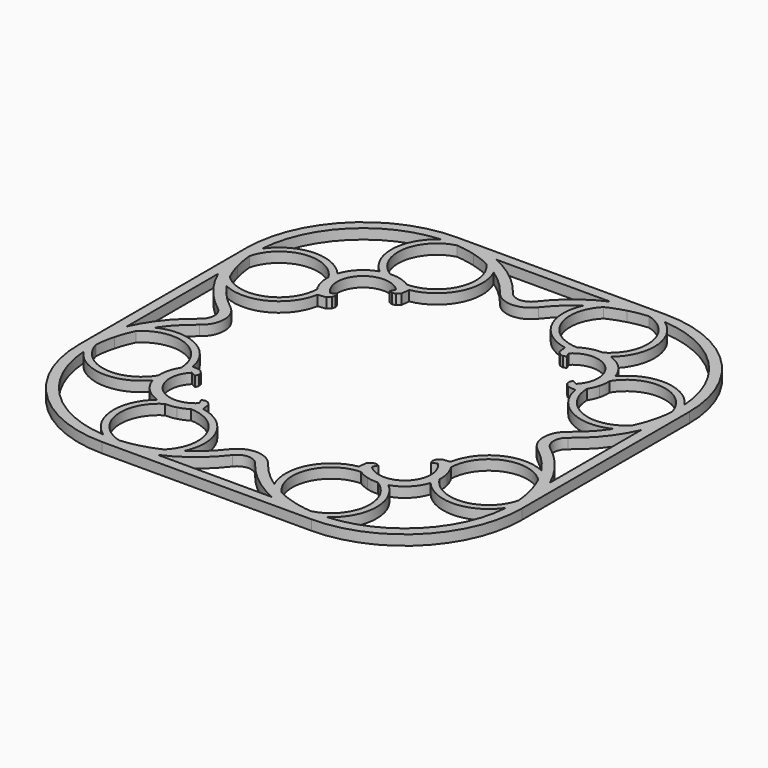
from build123d import *

# Parameters (mm, degrees)
F2_DEPTH = 1.5


with BuildPart() as f2:
    # F1 (on Top) → F2 (new body)
    with BuildSketch(Plane.XY):
        with BuildLine():
            Line((0, 32.85), (-15.5, 32.85))
            ThreePointArc((-15.5, 32.85), (-27.768303, 27.768303), (-32.85, 15.5))
            Line((-32.85, 15.5), (-32.85, 0))
            Line((-32.85, 0), (-32.85, -15.5))
            ThreePointArc((-32.85, -15.5), (-27.768303, -27.768303), (-15.5, -32.85))
            Line((-15.5, -32.85), (0, -32.85))
            Line((0, -32.85), (15.5, -32.85))
            ThreePointArc((15.5, -32.85), (27.768303, -27.768303), (32.85, -15.5))
            Line((32.85, -15.5), (32.85, 0))
            Line((32.85, 0), (32.85, 15.5))
            ThreePointArc((32.85, 15.5), (27.768303, 27.768303), (15.5, 32.85))
            Line((15.5, 32.85), (0, 32.85))
        make_face()
        with BuildLine():
            ThreePointArc((-31.314441, -16.561104), (-26.095691, -19.497077), (-20.596098, -17.128585))
            ThreePointArc((-20.596098, -17.128585), (-19.283021, -19.283021), (-17.128585, -20.596098))
            ThreePointArc((-17.128585, -20.596098), (-19.497077, -26.095691), (-16.561104, -31.314441))
            ThreePointArc((-16.561104, -31.314441), (-26.707642, -26.707642), (-31.314441, -16.561104))
        make_face(mode=Mode.SUBTRACT)
        with BuildLine():
            ThreePointArc((-15.772179, -20.843072), (-14.93688, -20.820282), (-14.115318, -20.667703))
            ThreePointArc((-14.115318, -20.667703), (-13.327535, -20.389059), (-12.59275, -19.991146))
            ThreePointArc((-12.59275, -19.991146), (-7.409372, -23.624451), (-8.706178, -29.820143))
            ThreePointArc((-8.706178, -29.820143), (-10.029517, -30.376031), (-11.397718, -30.809924))
            ThreePointArc((-11.397718, -30.809924), (-12.799562, -31.118263), (-14.223551, -31.298518))
            ThreePointArc((-14.223551, -31.298518), (-18.444464, -26.581295), (-15.772179, -20.843072))
        make_face(mode=Mode.SUBTRACT)
        with BuildLine():
            ThreePointArc((-1.664904, -25.969604), (0, -25.141623), (1.664904, -25.969604))
            ThreePointArc((1.664904, -25.969604), (4.713149, -29.089199), (8.443088, -31.35))
            Line((8.443088, -31.35), (0, -31.35))
            Line((0, -31.35), (-8.443088, -31.35))
            ThreePointArc((-8.443088, -31.35), (-4.713149, -29.089199), (-1.664904, -25.969604))
        make_face(mode=Mode.SUBTRACT)
        with BuildLine():
            ThreePointArc((-29.820143, -8.706178), (-23.624451, -7.409372), (-19.991146, -12.59275))
            ThreePointArc((-19.991146, -12.59275), (-20.389059, -13.327535), (-20.667703, -14.115318))
            ThreePointArc((-20.667703, -14.115318), (-20.820282, -14.93688), (-20.843072, -15.772179))
            ThreePointArc((-20.843072, -15.772179), (-26.581295, -18.444464), (-31.298518, -14.223551))
            ThreePointArc((-31.298518, -14.223551), (-31.118263, -12.799562), (-30.809924, -11.397718))
            ThreePointArc((-30.809924, -11.397718), (-30.376031, -10.029517), (-29.820143, -8.706178))
        make_face(mode=Mode.SUBTRACT)
        with BuildLine():
            ThreePointArc((8.706178, -29.820143), (7.409372, -23.624451), (12.59275, -19.991146))
            ThreePointArc((12.59275, -19.991146), (13.327535, -20.389059), (14.115318, -20.667703))
            ThreePointArc((14.115318, -20.667703), (14.93688, -20.820282), (15.772179, -20.843072))
            ThreePointArc((15.772179, -20.843072), (18.444464, -26.581295), (14.223551, -31.298518))
            ThreePointArc((14.223551, -31.298518), (12.799562, -31.118263), (11.397718, -30.809924))
            ThreePointArc((11.397718, -30.809924), (10.029517, -30.376031), (8.706178, -29.820143))
        make_face(mode=Mode.SUBTRACT)
        with BuildLine():
            ThreePointArc((16.561104, -31.314441), (19.497077, -26.095691), (17.128585, -20.596098))
            ThreePointArc((17.128585, -20.596098), (19.283021, -19.283021), (20.596098, -17.128585))
            ThreePointArc((20.596098, -17.128585), (26.095691, -19.497077), (31.314441, -16.561104))
            ThreePointArc((31.314441, -16.561104), (26.707642, -26.707642), (16.561104, -31.314441))
        make_face(mode=Mode.SUBTRACT)
        with BuildLine():
            ThreePointArc((20.843072, -15.772179), (20.820282, -14.93688), (20.667703, -14.115318))
            ThreePointArc((20.667703, -14.115318), (20.389059, -13.327535), (19.991146, -12.59275))
            ThreePointArc((19.991146, -12.59275), (23.624451, -7.409372), (29.820143, -8.706178))
            ThreePointArc((29.820143, -8.706178), (30.376031, -10.029517), (30.809924, -11.397718))
            ThreePointArc((30.809924, -11.397718), (31.118263, -12.799562), (31.298518, -14.223551))
            ThreePointArc((31.298518, -14.223551), (26.581295, -18.444464), (20.843072, -15.772179))
        make_face(mode=Mode.SUBTRACT)
        with BuildLine():
            ThreePointArc((25.969604, -1.664904), (25.141623, 0), (25.969604, 1.664904))
            ThreePointArc((25.969604, 1.664904), (29.089199, 4.713149), (31.35, 8.443088))
            Line((31.35, 8.443088), (31.35, 0))
            Line((31.35, 0), (31.35, -8.443088))
            ThreePointArc((31.35, -8.443088), (29.089199, -4.713149), (25.969604, -1.664904))
        make_face(mode=Mode.SUBTRACT)
        with BuildLine():
            Line((-31.35, 0), (-31.35, 8.443088))
            ThreePointArc((-31.35, 8.443088), (-29.089199, 4.713149), (-25.969604, 1.664904))
            ThreePointArc((-25.969604, 1.664904), (-25.141623, 0), (-25.969604, -1.664904))
            ThreePointArc((-25.969604, -1.664904), (-29.089199, -4.713149), (-31.35, -8.443088))
            Line((-31.35, -8.443088), (-31.35, 0))
        make_face(mode=Mode.SUBTRACT)
        with BuildLine():
            ThreePointArc((-20.843072, 15.772179), (-20.820282, 14.93688), (-20.667703, 14.115318))
            ThreePointArc((-20.667703, 14.115318), (-20.389059, 13.327535), (-19.991146, 12.59275))
            ThreePointArc((-19.991146, 12.59275), (-23.624451, 7.409372), (-29.820143, 8.706178))
            ThreePointArc((-29.820143, 8.706178), (-30.376031, 10.029517), (-30.809924, 11.397718))
            ThreePointArc((-30.809924, 11.397718), (-31.118263, 12.799562), (-31.298518, 14.223551))
            ThreePointArc((-31.298518, 14.223551), (-26.581295, 18.444464), (-20.843072, 15.772179))
        make_face(mode=Mode.SUBTRACT)
        with BuildLine():
            ThreePointArc((-17.128585, 20.596098), (-19.283021, 19.283021), (-20.596098, 17.128585))
            ThreePointArc((-20.596098, 17.128585), (-26.095691, 19.497077), (-31.314441, 16.561104))
            ThreePointArc((-31.314441, 16.561104), (-26.707642, 26.707642), (-16.561104, 31.314441))
            ThreePointArc((-16.561104, 31.314441), (-19.497077, 26.095691), (-17.128585, 20.596098))
        make_face(mode=Mode.SUBTRACT)
        with BuildLine():
            ThreePointArc((-8.706178, 29.820143), (-7.409372, 23.624451), (-12.59275, 19.991146))
            ThreePointArc((-12.59275, 19.991146), (-13.327535, 20.389059), (-14.115318, 20.667703))
            ThreePointArc((-14.115318, 20.667703), (-14.93688, 20.820282), (-15.772179, 20.843072))
            ThreePointArc((-15.772179, 20.843072), (-18.444464, 26.581295), (-14.223551, 31.298518))
            ThreePointArc((-14.223551, 31.298518), (-12.799562, 31.118263), (-11.397718, 30.809924))
            ThreePointArc((-11.397718, 30.809924), (-10.029517, 30.376031), (-8.706178, 29.820143))
        make_face(mode=Mode.SUBTRACT)
        with BuildLine():
            ThreePointArc((-6.673836, 28.665156), (-4.617475, 27.023591), (-2.861022, 25.064451))
            ThreePointArc((-2.861022, 25.064451), (0, 23.641623), (2.861022, 25.064451))
            ThreePointArc((2.861022, 25.064451), (4.617475, 27.023591), (6.673836, 28.665156))
            ThreePointArc((6.673836, 28.665156), (6.740584, 22.677599), (11.541555, 19.099057))
            Line((11.541555, 19.099057), (11.690475, 17.895312))
            Line((11.690475, 17.895312), (12.163968, 17.421819))
            Line((12.163968, 17.421819), (12.677919, 17.301522))
            Line((12.677919, 17.301522), (13.15498, 17.473795))
            Line((13.15498, 17.473795), (12.777639, 18.222361))
            ThreePointArc((12.777639, 18.222361), (18.222361, 18.222361), (18.222361, 12.777639))
            Line((18.222361, 12.777639), (17.473795, 13.15498))
            Line((17.473795, 13.15498), (17.301522, 12.677919))
            Line((17.301522, 12.677919), (17.421819, 12.163968))
            Line((17.421819, 12.163968), (17.895312, 11.690475))
            Line((17.895312, 11.690475), (19.099057, 11.541555))
            ThreePointArc((19.099057, 11.541555), (22.677599, 6.740584), (28.665156, 6.673836))
            ThreePointArc((28.665156, 6.673836), (27.023591, 4.617475), (25.064451, 2.861022))
            ThreePointArc((25.064451, 2.861022), (23.641623, 0), (25.064451, -2.861022))
            ThreePointArc((25.064451, -2.861022), (27.023591, -4.617475), (28.665156, -6.673836))
            ThreePointArc((28.665156, -6.673836), (22.677599, -6.740584), (19.099057, -11.541555))
            Line((19.099057, -11.541555), (17.895312, -11.690475))
            Line((17.895312, -11.690475), (17.421819, -12.163968))
            Line((17.421819, -12.163968), (17.301522, -12.677919))
            Line((17.301522, -12.677919), (17.473795, -13.15498))
            Line((17.473795, -13.15498), (18.222361, -12.777639))
            ThreePointArc((18.222361, -12.777639), (18.222361, -18.222361), (12.777639, -18.222361))
            Line((12.777639, -18.222361), (13.15498, -17.473795))
            Line((13.15498, -17.473795), (12.677919, -17.301522))
            Line((12.677919, -17.301522), (12.163968, -17.421819))
            Line((12.163968, -17.421819), (11.690475, -17.895312))
            Line((11.690475, -17.895312), (11.541555, -19.099057))
            ThreePointArc((11.541555, -19.099057), (6.740584, -22.677599), (6.673836, -28.665156))
            ThreePointArc((6.673836, -28.665156), (4.617475, -27.023591), (2.861022, -25.064451))
            ThreePointArc((2.861022, -25.064451), (0, -23.641623), (-2.861022, -25.064451))
            ThreePointArc((-2.861022, -25.064451), (-4.617475, -27.023591), (-6.673836, -28.665156))
            ThreePointArc((-6.673836, -28.665156), (-6.740584, -22.677599), (-11.541555, -19.099057))
            Line((-11.541555, -19.099057), (-11.690475, -17.895312))
            Line((-11.690475, -17.895312), (-12.163968, -17.421819))
            Line((-12.163968, -17.421819), (-12.677919, -17.301522))
            Line((-12.677919, -17.301522), (-13.15498, -17.473795))
            Line((-13.15498, -17.473795), (-12.777639, -18.222361))
            ThreePointArc((-12.777639, -18.222361), (-18.222361, -18.222361), (-18.222361, -12.777639))
            Line((-18.222361, -12.777639), (-17.473795, -13.15498))
            Line((-17.473795, -13.15498), (-17.301522, -12.677919))
            Line((-17.301522, -12.677919), (-17.421819, -12.163968))
            Line((-17.421819, -12.163968), (-17.895312, -11.690475))
            Line((-17.895312, -11.690475), (-19.099057, -11.541555))
            ThreePointArc((-19.099057, -11.541555), (-22.677599, -6.740584), (-28.665156, -6.673836))
            ThreePointArc((-28.665156, -6.673836), (-27.023591, -4.617475), (-25.064451, -2.861022))
            ThreePointArc((-25.064451, -2.861022), (-23.641623, 0), (-25.064451, 2.861022))
            ThreePointArc((-25.064451, 2.861022), (-27.023591, 4.617475), (-28.665156, 6.673836))
            ThreePointArc((-28.665156, 6.673836), (-22.677599, 6.740584), (-19.099057, 11.541555))
            Line((-19.099057, 11.541555), (-17.895312, 11.690475))
            Line((-17.895312, 11.690475), (-17.421819, 12.163968))
            Line((-17.421819, 12.163968), (-17.301522, 12.677919))
            Line((-17.301522, 12.677919), (-17.473795, 13.15498))
            Line((-17.473795, 13.15498), (-18.222361, 12.777639))
            ThreePointArc((-18.222361, 12.777639), (-18.222361, 18.222361), (-12.777639, 18.222361))
            Line((-12.777639, 18.222361), (-13.15498, 17.473795))
            Line((-13.15498, 17.473795), (-12.677919, 17.301522))
            Line((-12.677919, 17.301522), (-12.163968, 17.421819))
            Line((-12.163968, 17.421819), (-11.690475, 17.895312))
            Line((-11.690475, 17.895312), (-11.541555, 19.099057))
            ThreePointArc((-11.541555, 19.099057), (-6.740584, 22.677599), (-6.673836, 28.665156))
        make_face(mode=Mode.SUBTRACT)
        with BuildLine():
            ThreePointArc((29.820143, 8.706178), (23.624451, 7.409372), (19.991146, 12.59275))
            ThreePointArc((19.991146, 12.59275), (20.389059, 13.327535), (20.667703, 14.115318))
            ThreePointArc((20.667703, 14.115318), (20.820282, 14.93688), (20.843072, 15.772179))
            ThreePointArc((20.843072, 15.772179), (26.581295, 18.444464), (31.298518, 14.223551))
            ThreePointArc((31.298518, 14.223551), (31.118263, 12.799562), (30.809924, 11.397718))
            ThreePointArc((30.809924, 11.397718), (30.376031, 10.029517), (29.820143, 8.706178))
        make_face(mode=Mode.SUBTRACT)
        with BuildLine():
            ThreePointArc((-1.664904, 25.969604), (-4.713149, 29.089199), (-8.443088, 31.35))
            Line((-8.443088, 31.35), (0, 31.35))
            Line((0, 31.35), (8.443088, 31.35))
            ThreePointArc((8.443088, 31.35), (4.713149, 29.089199), (1.664904, 25.969604))
            ThreePointArc((1.664904, 25.969604), (0, 25.141623), (-1.664904, 25.969604))
        make_face(mode=Mode.SUBTRACT)
        with BuildLine():
            ThreePointArc((15.772179, 20.843072), (14.93688, 20.820282), (14.115318, 20.667703))
            ThreePointArc((14.115318, 20.667703), (13.327535, 20.389059), (12.59275, 19.991146))
            ThreePointArc((12.59275, 19.991146), (7.409372, 23.624451), (8.706178, 29.820143))
            ThreePointArc((8.706178, 29.820143), (10.029517, 30.376031), (11.397718, 30.809924))
            ThreePointArc((11.397718, 30.809924), (12.799562, 31.118263), (14.223551, 31.298518))
            ThreePointArc((14.223551, 31.298518), (18.444464, 26.581295), (15.772179, 20.843072))
        make_face(mode=Mode.SUBTRACT)
        with BuildLine():
            ThreePointArc((31.314441, 16.561104), (26.095691, 19.497077), (20.596098, 17.128585))
            ThreePointArc((20.596098, 17.128585), (19.283021, 19.283021), (17.128585, 20.596098))
            ThreePointArc((17.128585, 20.596098), (19.497077, 26.095691), (16.561104, 31.314441))
            ThreePointArc((16.561104, 31.314441), (26.707642, 26.707642), (31.314441, 16.561104))
        make_face(mode=Mode.SUBTRACT)
    extrude(amount=F2_DEPTH)


solid = f2.part
